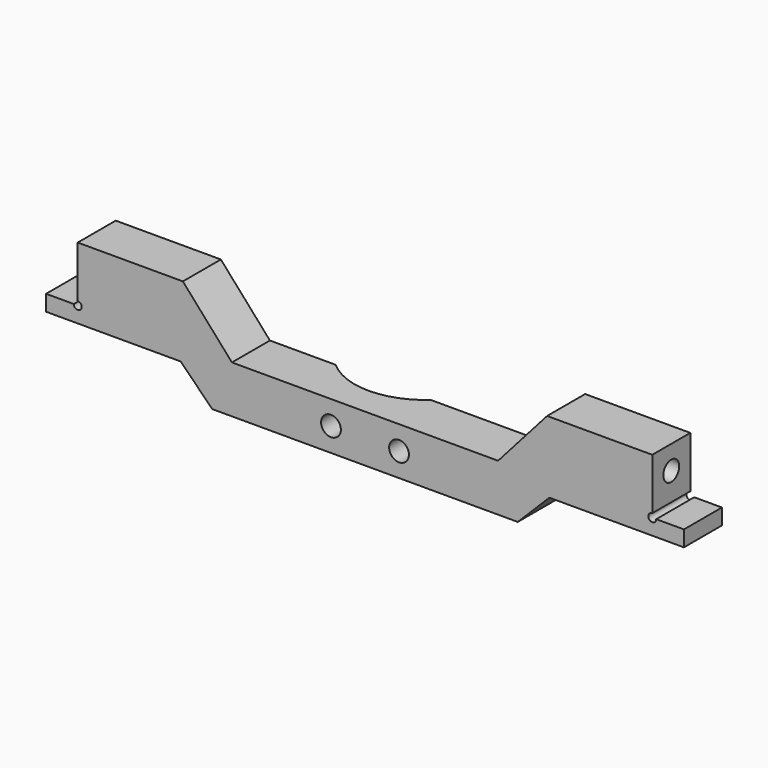
from build123d import *

# Parameters (mm, degrees)
F1_DEPTH  = 13
F2_W      = 10
F2_H      = 7
F3_DEPTH  = 6.001
F5_DEPTH  = 13.001
F6_R      = 1.25
F7_DEPTH  = 12
F8_R      = 1.25
F9_DEPTH  = 12
F10_R     = 1.25
F11_DEPTH = 6.001
F13_DEPTH = 6


with BuildPart() as f1:
    # F0 (on Top) → F1 (new body)
    with BuildSketch(Plane.XY):
        Polygon((38.8, 3), (-33.8, 3), (-33.8, -3), (-6, -3), (6, -3), (38.8, -3), align=None)
    extrude(amount=F1_DEPTH)

    # F2 (on face) → F3 (cut, through all)
    with BuildSketch(Plane(origin=(0, 3, 0), x_dir=(-1, 0, 0), z_dir=(0, 1, 0))):
        Polygon((-28.8, 7), (-28.8, 0), (-21.8, 0), align=None)
        with Locations((-33.8, 3.5)):
            Rectangle(F2_W, F2_H)
        Polygon((20.5147186258, 13), (-25.5147186258, 13), (-19.3147186258, 6), (14.3147186258, 6), align=None)
        Polygon((23.8, 7), (16.8, 0), (23.8, 0), align=None)
        with Locations((28.8, 3.5)):
            Rectangle(F2_W, F2_H)
    extrude(amount=-F3_DEPTH, mode=Mode.SUBTRACT)

    # F4 (on face) → F5 (cut, through all)
    with BuildSketch(Plane(origin=(0, 0, 0), x_dir=(1, 0, 0), z_dir=(0, 0, -1))):
        with BuildLine():
            Line((-6, -3), (6, -3))
            ThreePointArc((6, -3), (0, -0.7), (-6, -3))
        make_face()
    extrude(amount=-F5_DEPTH, mode=Mode.SUBTRACT)

    # F6 (on face) → F7 (cut)
    with BuildSketch(Plane.YZ.offset(38.8)):
        with Locations((0, 10)):
            Circle(F6_R)
    extrude(amount=-F7_DEPTH, mode=Mode.SUBTRACT)

    # F8 (on face) → F9 (cut)
    with BuildSketch(Plane(origin=(-33.8, 0, 0), x_dir=(0, -1, 0), z_dir=(-1, 0, 0))):
        with Locations((0, 10)):
            Circle(F8_R)
    extrude(amount=-F9_DEPTH, mode=Mode.SUBTRACT)

    # F10 (on face) → F11 (cut, through all)
    with BuildSketch(Plane.XZ.offset(3)):
        with Locations((-1.8, 3)):
            Circle(F10_R)
        with Locations((6.8, 3)):
            Circle(F10_R)
    extrude(amount=-F11_DEPTH, mode=Mode.SUBTRACT)

    # F12 (on face) → F13 (join)
    with BuildSketch(Plane.XZ.offset(3)):
        with BuildLine():
            Line((38.8, 6.5), (38.8, 7))
            Line((38.8, 7), (28.8, 7))
            Line((28.8, 7), (25.8, 4))
            Line((25.8, 4), (42.8, 4))
            Line((42.8, 4), (42.8, 6))
            Line((42.8, 6), (39.3, 6))
            ThreePointArc((39.3, 6), (38.4464466094, 5.6464466094), (38.8, 6.5))
        make_face()
        with BuildLine():
            Line((-37.8, 4), (-20.8, 4))
            Line((-20.8, 4), (-23.8, 7))
            Line((-23.8, 7), (-33.8, 7))
            Line((-33.8, 7), (-33.8, 6.5))
            ThreePointArc((-33.8, 6.5), (-33.4464466094, 5.6464466094), (-34.3, 6))
            Line((-34.3, 6), (-37.8, 6))
            Line((-37.8, 6), (-37.8, 4))
        make_face()
    extrude(amount=-F13_DEPTH)


solid = f1.part
